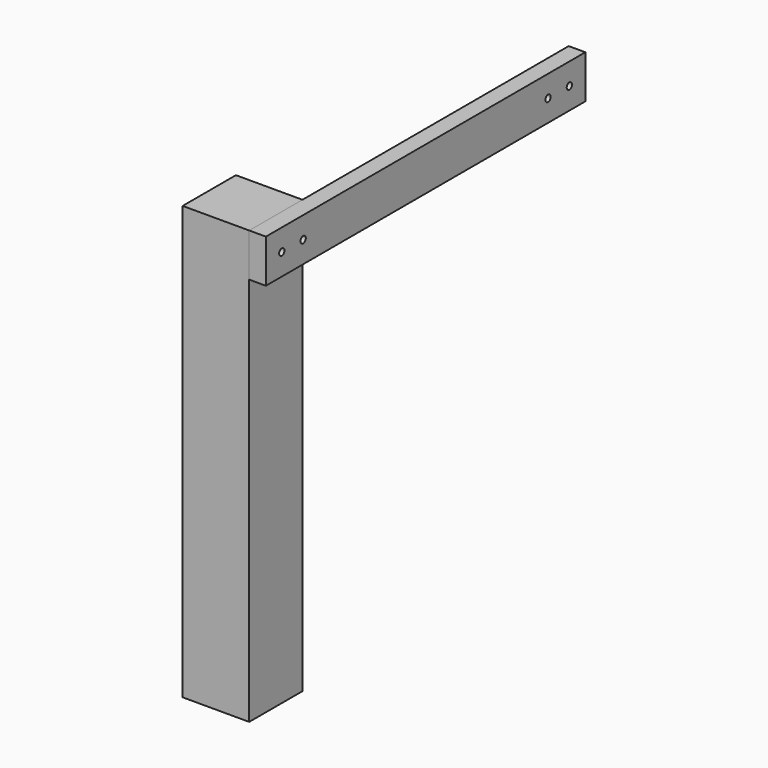
from build123d import *

# Parameters (mm, degrees)
F0_W     = 100
F0_H     = 100
F1_DEPTH = 650
F2_R     = 5
F3_DEPTH = 100.001
F4_W     = 600
F4_H     = 65
F4_R     = 5
F5_DEPTH = 25


with BuildPart() as f1:
    # F0 (on Top) → F1 (new body)
    with BuildSketch(Plane.XY):
        with Locations((-50, -50)):
            Rectangle(F0_W, F0_H)
    extrude(amount=F1_DEPTH)

    # F2 (on face) → F3 (cut, through all)
    with BuildSketch(Plane.YZ):
        with Locations((-70, 617.5)):
            Circle(F2_R)
        with Locations((-30, 617.5)):
            Circle(F2_R)
    extrude(amount=-F3_DEPTH, mode=Mode.SUBTRACT)


with BuildPart() as f5:
    # F4 (on Right) → F5 (new body)
    with BuildSketch(Plane.YZ):
        with Locations((200, 617.5)):
            Rectangle(F4_W, F4_H)
        with Locations((-70, 617.5)):
            Circle(F4_R, mode=Mode.SUBTRACT)
        with Locations((-30, 617.5)):
            Circle(F4_R, mode=Mode.SUBTRACT)
        with Locations((430, 617.5)):
            Circle(F4_R, mode=Mode.SUBTRACT)
        with Locations((470, 617.5)):
            Circle(F4_R, mode=Mode.SUBTRACT)
    extrude(amount=F5_DEPTH)


solid = Compound([f1.part, f5.part])
